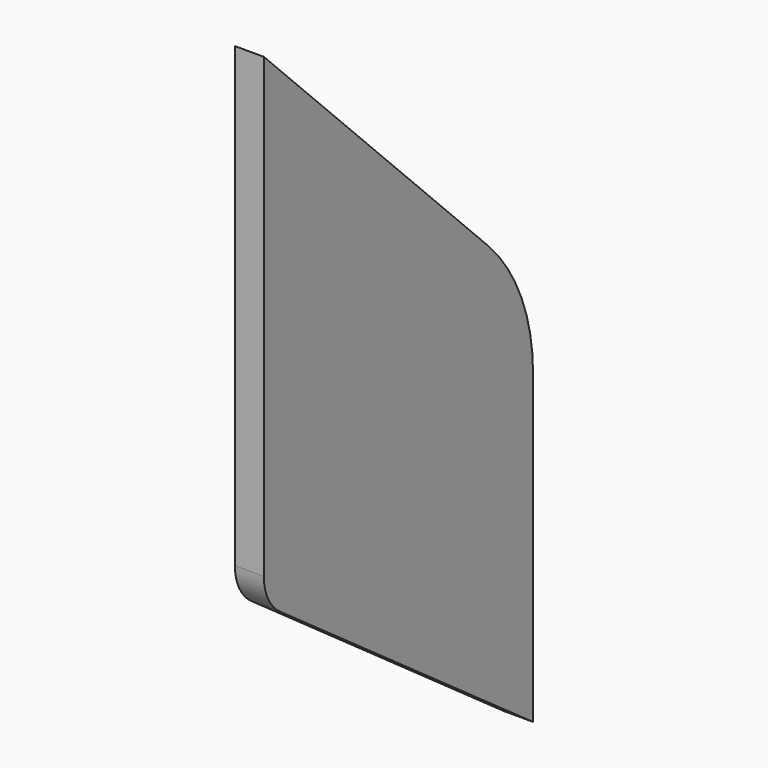
from build123d import *

# Parameters (mm, degrees)
PAD005_DEPTH = 1.5
FILLET004_R  = 20
FILLET005_R  = 5


with BuildPart() as part:
    # Sketch010 → Pad005 (new body, symmetric)
    with BuildSketch(Plane.YZ):
        Polygon((27, -2.5), (61.9, -27.4), (61.9, 12.6), (27, 47.5), align=None)
    extrude(amount=PAD005_DEPTH, both=True)

    # Fillet004
    fillet004_edges = [part.edges().sort_by_distance(p)[0] for p in [
        (0, 61.9, 12.6),
    ]]
    fillet(fillet004_edges, radius=FILLET004_R)

    # Fillet005
    fillet005_edges = [part.edges().sort_by_distance(p)[0] for p in [
        (0, 27, -2.5),
    ]]
    fillet(fillet005_edges, radius=FILLET005_R)


solid = part.part
